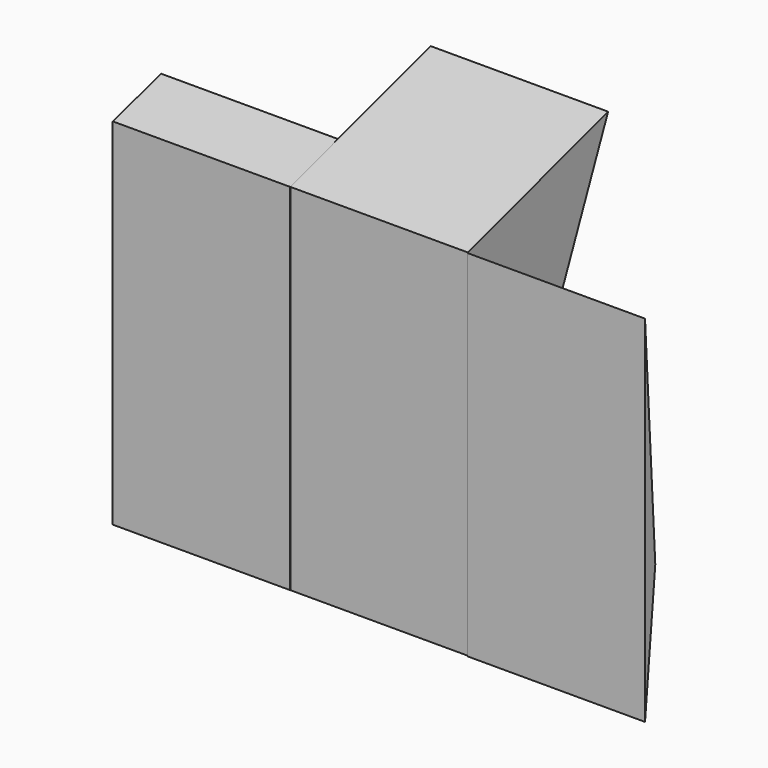
from build123d import *

# Parameters (mm, degrees)
F1_DEPTH = 2438.4
F3_DEPTH = 2438.4
F5_START = 2438.4
F5_DEPTH = 2438.4


with BuildPart() as f1:
    # F0 (on Right) → F1 (new body)
    with BuildSketch(Plane.YZ):
        Polygon((2355.5145265505, 5523.3785235716), (-53.9176911116, 4800.548858273), (2044.4923362358, 4800.548858273), align=None)
        Polygon((-53.9176911116, 4800.548858273), (-53.9176911116, -76.251141727), (2044.4923362358, 4800.548858273), align=None)
    extrude(amount=F1_DEPTH)

    # F2 (on Right) → F3 (join)
    with BuildSketch(Plane.YZ):
        Polygon((-54.7102242708, 4800.0330992818), (-54.7102242708, -76.7669007182), (777.9717968815, 5037.4895664185), align=None)
    extrude(amount=-F3_DEPTH)

    # F4 (on Right) → F5 (join)
    with BuildSketch(Plane.YZ.offset(F5_START)):
        Polygon((-58.8847696781, 4795.068404901), (-58.8847696781, -81.731595099), (117.1771129639, 1752.157592294), align=None)
    extrude(amount=F5_DEPTH)


solid = f1.part
